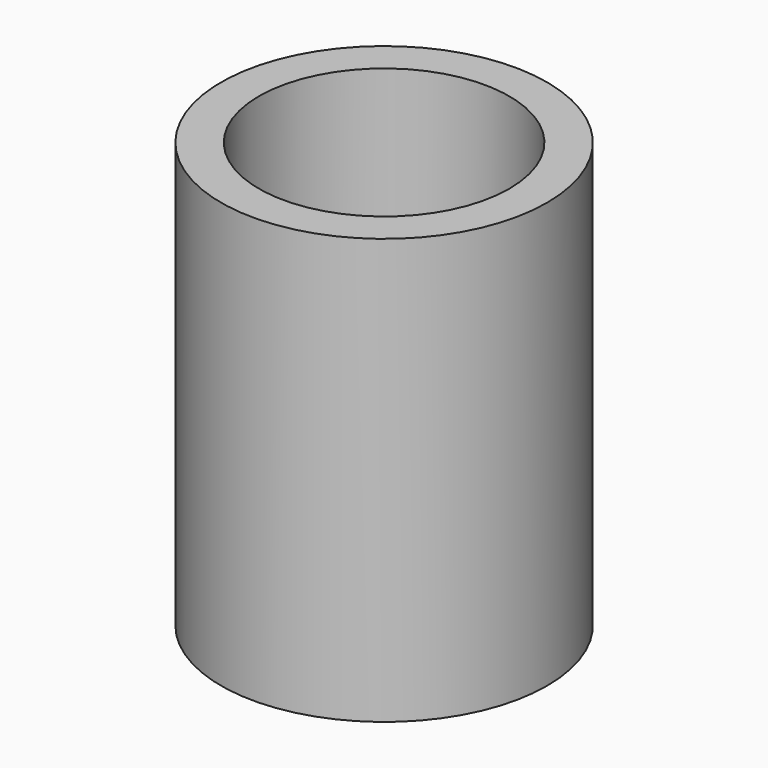
from build123d import *

# Parameters (mm, degrees)
CYLINDER_R        = 3.45
CYLINDER_DEPTH    = 9
CYLINDER001_R     = 2.65
CYLINDER001_DEPTH = 9


with BuildPart() as part:
    # Cylinder → Cylinder (join)
    with BuildSketch(Plane.XY):
        Circle(CYLINDER_R)
    extrude(amount=CYLINDER_DEPTH)

    # Cylinder001 → Cylinder001 (cut)
    with BuildSketch(Plane.XY):
        Circle(CYLINDER001_R)
    extrude(amount=CYLINDER001_DEPTH, mode=Mode.SUBTRACT)


solid = part.part
